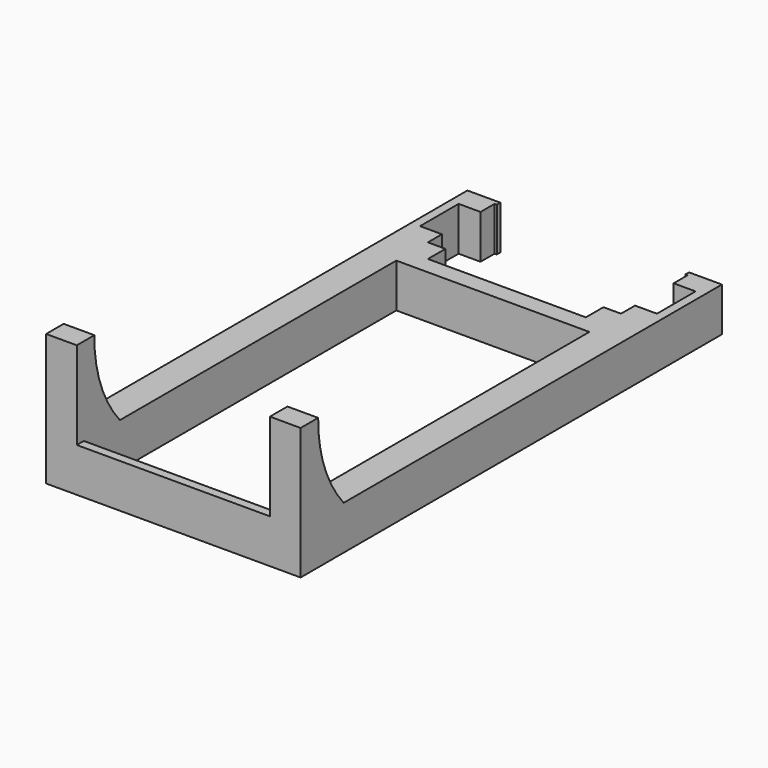
from build123d import *

# Parameters (mm, degrees)
SKETCH_W     = 44
SKETCH_H     = 89
PAD_DEPTH    = 10
PAD001_DEPTH = 7
PAD002_DEPTH = 7


with BuildPart() as part:
    # Sketch → Pad (new body)
    with BuildSketch(Plane.XY):
        Polygon((-22, 0), (-18, 0), (-18, -5), (18, -5), (18, 0), (22, 0), (22, 4), (27, 4), (27, 15), (22, 15), (22, 19), (21.5, 19), (21.5, 20), (29, 20), (29, -100), (-29, -100), (-29, 20), (-21.5, 20), (-21.5, 19), (-22, 19), (-22, 15), (-27, 15), (-27, 4), (-22, 4), align=None)
        with Locations((0, -53.5)):
            Rectangle(SKETCH_W, SKETCH_H, mode=Mode.SUBTRACT)
    extrude(amount=PAD_DEPTH)

    # Sketch001 (on DatumPlane) → Pad001 (join)
    with BuildSketch(Plane.YZ.offset(-22)):
        with BuildLine():
            Line((-100, 0), (-100, 30))
            Line((-95, 30), (-100, 30))
            ThreePointArc((-95, 30), (-88.049566, 10.375362), (-70, 0))
            Line((-100, 0), (-70, 0))
        make_face()
    extrude(amount=-PAD001_DEPTH)

    # Sketch002 (on DatumPlane) → Pad002 (join)
    with BuildSketch(Plane.YZ.offset(22)):
        with BuildLine():
            Line((-100, 0), (-100, 30))
            Line((-95, 30), (-100, 30))
            ThreePointArc((-95, 30), (-88.049566, 10.375362), (-70, 0))
            Line((-100, 0), (-70, 0))
        make_face()
    extrude(amount=PAD002_DEPTH)


solid = part.part
